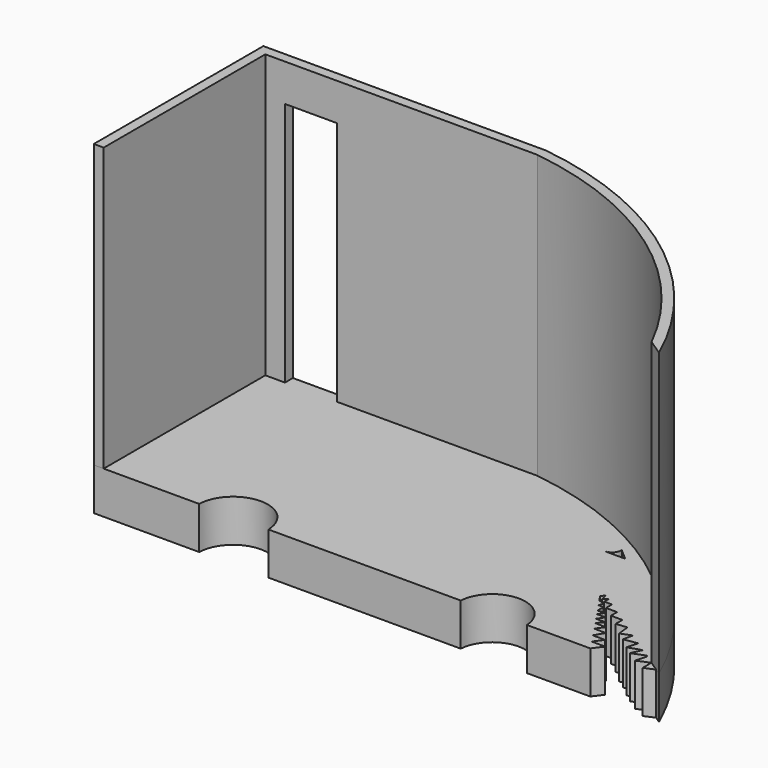
from build123d import *

# Parameters (mm, degrees)
F1_DEPTH = 15.24
F3_DEPTH = 101.6
F4_W     = 18.707216
F4_H     = 88.194421
F5_DEPTH = 25.4


with BuildPart() as f1:
    # F0 (on Top) → F1 (new body)
    with BuildSketch(Plane.XY):
        with BuildLine():
            Line((-18.732497, 46.057983), (-120.332497, 46.057983))
            Line((-120.332497, 46.057983), (-120.332497, -30.142017))
            Line((-120.332497, -30.142017), (-82.427092, -30.142017))
            ThreePointArc((-82.427092, -30.142017), (-69.983141, -18.022915), (-57.539191, -30.142017))
            Line((-57.539191, -30.142017), (11.593875, -30.142017))
            ThreePointArc((11.593875, -30.142017), (23.484763, -18.950785), (35.375651, -30.142017))
            Line((35.375651, -30.142017), (58.163952, -30.142017))
            Line((58.163952, -30.142017), (60.748935, -26.673689))
            Line((60.748935, -26.673689), (55.851734, -26.673689))
            Line((55.851734, -26.673689), (58.163952, -23.514647))
            Line((58.163952, -23.514647), (53.745706, -23.514647))
            Line((53.745706, -23.514647), (55.724084, -20.08507))
            Line((55.724084, -20.08507), (51.459321, -20.08507))
            Line((51.459321, -20.08507), (53.583879, -17.30103))
            Line((53.583879, -17.30103), (49.603295, -17.30103))
            Line((49.603295, -17.30103), (51.459321, -15.071008))
            Line((51.459321, -15.071008), (48.116613, -15.071008))
            Line((48.116613, -15.071008), (49.768861, -12.751567))
            Line((49.768861, -12.751567), (46.570319, -12.751567))
            Line((46.570319, -12.751567), (48.049032, -10.553847))
            Line((48.049032, -10.553847), (45.373639, -10.956547))
            Line((45.373639, -10.956547), (45.373639, -8.205302))
            Line((45.373639, -8.205302), (43.539476, -8.205302))
            Line((43.539476, -8.205302), (44.186018, -6.436042))
            Line((44.186018, -6.436042), (41.970773, -5.852248))
            Line((41.970773, -5.852248), (40.485543, -3.624404))
            Line((40.485543, -3.624404), (41.447767, -2.273184))
            Line((41.447767, -2.273184), (41.970773, -4.614557))
            Line((41.970773, -4.614557), (43.456003, -3.624404))
            Line((43.456003, -3.624404), (43.456003, -5.500791))
            Line((43.456003, -5.500791), (46.244762, -5.500791))
            Line((46.244762, -5.500791), (46.244762, -8.205302))
            Line((46.244762, -8.205302), (50.264311, -8.205302))
            Line((50.264311, -8.205302), (50.264311, -10.998937))
            Line((50.264311, -10.998937), (54.41632, -10.998937))
            Line((54.41632, -10.998937), (54.41632, -14.073984))
            Line((54.41632, -14.073984), (58.331016, -13.6329))
            Line((58.331016, -13.6329), (58.823281, -18.001834))
            Line((58.823281, -18.001834), (62.637491, -16.530466))
            Line((62.637491, -16.530466), (61.862964, -20.127285))
            Line((61.862964, -20.127285), (66.772538, -19.312689))
            Line((66.772538, -19.312689), (65.677531, -23.292083))
            Line((65.677531, -23.292083), (70.371771, -21.734395))
            Line((70.371771, -21.734395), (68.654649, -25.435705))
            Line((68.654649, -25.435705), (73.264088, -23.68046))
            Line((73.264088, -23.68046), (73.735579, -23.997698))
            Line((73.735579, -23.997698), (72.602402, -28.115808))
            Line((72.602402, -28.115808), (77.035385, -26.217937))
            Line((77.035385, -26.217937), (77.035385, -30.197294))
            Line((77.035385, -30.197294), (80.649813, -28.649868))
            Line((80.649813, -28.649868), (82.867503, -30.142017))
            ThreePointArc((82.867503, -30.142017), (41.998914, 21.199865), (-18.732497, 46.057983))
        make_face()
        with BuildLine():
            ThreePointArc((24.427019, 18.527661), (26.839532, 19.56536), (27.745401, 22.030404))
            Line((27.745401, 22.030404), (31.801209, 18.527661))
            Line((31.801209, 18.527661), (24.427019, 18.527661))
        make_face(mode=Mode.SUBTRACT)
    extrude(amount=F1_DEPTH)


with BuildPart() as f3:
    # F2 (on face) → F3 (new body)
    with BuildSketch(Plane.XY.offset(15.24)):
        with BuildLine():
            Line((77.111421, -26.269097), (82.867503, -30.142017))
            ThreePointArc((82.867503, -30.142017), (41.998914, 21.199865), (-18.732497, 46.057983))
            Line((-18.732497, 46.057983), (-120.332497, 46.057983))
            Line((-120.332497, 46.057983), (-120.332497, -30.142017))
            Line((-120.332497, -30.142017), (-116.776496, -30.142017))
            Line((-116.776496, -30.142017), (-116.776496, 42.501982))
            Line((-116.776496, 42.501982), (-18.971896, 42.501982))
            ThreePointArc((-18.971896, 42.501982), (37.590841, 20.021643), (77.111421, -26.269097))
        make_face()
    extrude(amount=F3_DEPTH)

    # F4 (on face) → F5 (cut)
    with BuildSketch(Plane(origin=(0, 46.057983, 0), x_dir=(-1, 0, 0), z_dir=(0, 1, 0))):
        with Locations((100.362375, 59.33721)):
            Rectangle(F4_W, F4_H)
    extrude(amount=-F5_DEPTH, mode=Mode.SUBTRACT)


solid = Compound([f1.part, f3.part])
